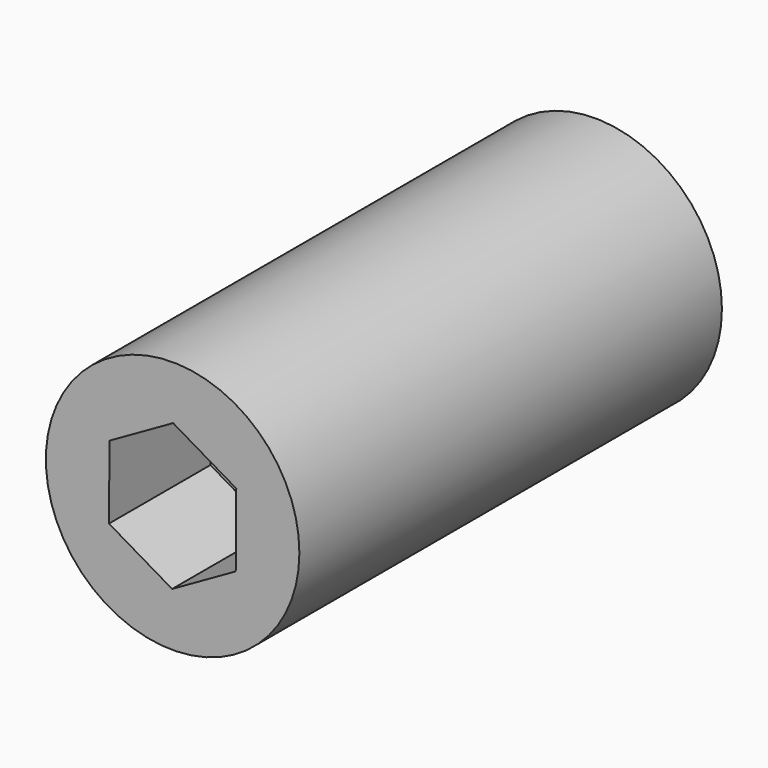
from build123d import *

# Parameters (mm, degrees)
F0_R     = 6
F1_DEPTH = 25
F3_DEPTH = 6


with BuildPart() as f1:
    # F0 (on Front) → F1 (new body)
    with BuildSketch(Plane.XZ):
        Circle(F0_R)
    extrude(amount=-F1_DEPTH)

    # F2 (on face) → F3 (cut)
    with BuildSketch(Plane.XZ):
        Polygon((0.024217, 3.464017), (-2.987818, 1.752981), (-3.012035, -1.711036), (-0.024217, -3.464017), (2.987818, -1.752981), (3.012035, 1.711036), align=None)
    extrude(amount=-F3_DEPTH, mode=Mode.SUBTRACT)


solid = f1.part
